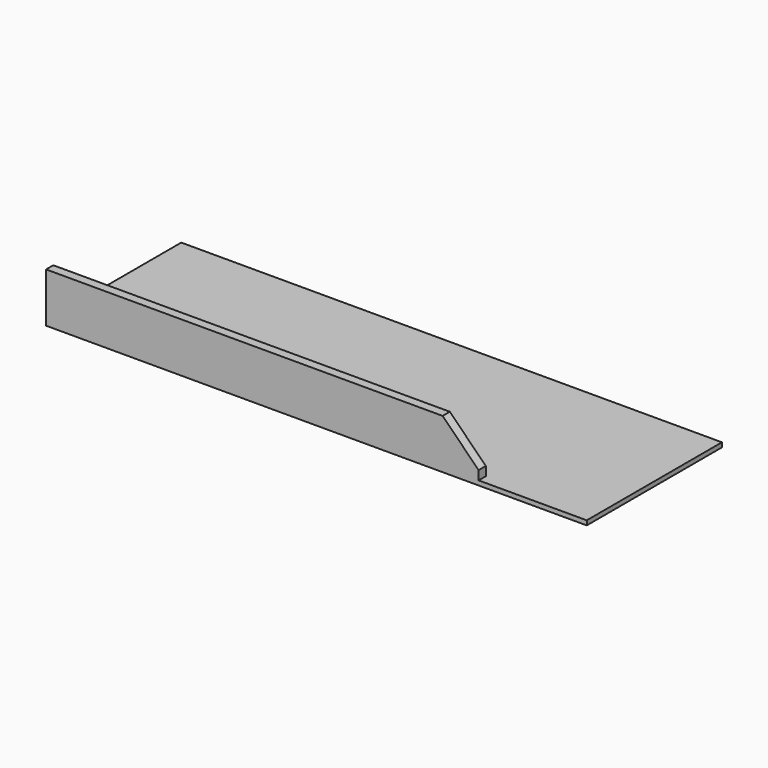
from build123d import *

# Parameters (mm, degrees)
F0_W     = 3048
F0_H     = 952.5
F1_DEPTH = 25.4
F2_W     = 2438.4
F2_H     = 254
F3_DEPTH = 50.8
F4_SIZE  = 203.2


with BuildPart() as f1:
    # F0 (on Top) → F1 (new body)
    with BuildSketch(Plane.XY):
        with Locations((1524, 476.25)):
            Rectangle(F0_W, F0_H)
    extrude(amount=F1_DEPTH)

    # F2 (on face) → F3 (join)
    with BuildSketch(Plane.XZ):
        with Locations((1219.2, 152.4)):
            Rectangle(F2_W, F2_H)
    extrude(amount=-F3_DEPTH)

    # F4
    f4_edges = [f1.edges().sort_by_distance(p)[0] for p in [
        (2438.4, 25.4, 279.4),
    ]]
    chamfer(f4_edges, length=F4_SIZE)


solid = f1.part
